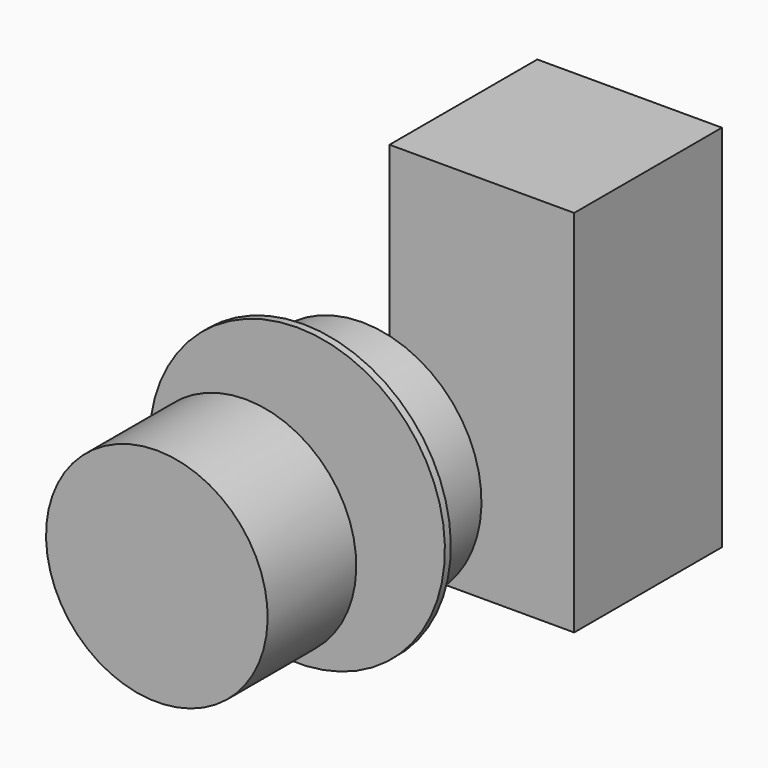
from build123d import *

# Parameters (mm, degrees)
F1_DEPTH = 50
F0_W     = 14
F0_H     = 7.5
F0_W_2   = 5
F0_H_2   = 40


with BuildPart() as f1:
    # F0 (on Right) → F1 (new body, symmetric)
    with BuildSketch(Plane.YZ):
        Polygon((217, 100), (117, 100), (117, 0), (117, -100), (217, -100), align=None)
    extrude(amount=F1_DEPTH, both=True)


with BuildPart() as f2:
    # F0 (on Right) → F2 (revolve)
    with BuildSketch(Plane.YZ):
        Polygon((0, 64.6060726047), (0, 54.6060726047), (31, 54.6060726047), (31, 14.6060726047), (36, 14.6060726047), (36, 54.6060726047), (36, 64.6060726047), align=None)
    revolve(axis=Axis((0, 11.2299398184, 0), (0, 1, 0)))


with BuildPart() as f3:
    # F0 (on Right) → F3 (revolve)
    with BuildSketch(Plane.YZ):
        Polygon((-8, 0), (0, 0), (0, 54.6060726047), (0, 64.6060726047), (0, 70), (-4, 70), (-4, 80), (-8, 80), align=None)
    revolve(axis=Axis((0, 11.2299398184, 0), (0, 1, 0)))


with BuildPart() as f4:
    # F0 (on Right) → F4 (revolve)
    with BuildSketch(Plane.YZ):
        with Locations((-19, 3.75)):
            Rectangle(F0_W, F0_H)
    revolve(axis=Axis((0, 11.2299398184, 0), (0, 1, 0)))


with BuildPart() as f5:
    # F0 (on Right) → F5 (revolve)
    with BuildSketch(Plane.YZ):
        Polygon((-26, 7.5), (-12, 7.5), (-12, 10), (-15.1788335517, 10), (-15.1788335517, 13), (-43, 13), (-57, 13), (-57, 0), (-47.6, 0), (-45, 1.5), (-39, 1.5), (-39, 7.5), align=None)
    revolve(axis=Axis((0, 11.2299398184, 0), (0, 1, 0)))


with BuildPart() as f6:
    # F0 (on Right) → F6 (revolve)
    with BuildSketch(Plane.YZ):
        Polygon((-103, 0), (-57, 0), (-57, 13), (-43, 13), (-43, 60), (-103, 60), align=None)
    revolve(axis=Axis((0, 11.2299398184, 0), (0, 1, 0)))


with BuildPart() as f7:
    # F0 (on Right) → F7 (revolve)
    with BuildSketch(Plane.YZ):
        with Locations((9.3741726726, 31)):
            Rectangle(F0_W_2, F0_H_2)
    revolve(axis=Axis((0, 11.2299398184, 0), (0, 1, 0)))


with BuildPart() as f8:
    # F0 (on Right) → F8 (revolve)
    with BuildSketch(Plane.YZ):
        with Locations((23.2, 31)):
            Rectangle(F0_W_2, F0_H_2)
    revolve(axis=Axis((0, 11.2299398184, 0), (0, 1, 0)))


solid = Compound([f1.part, f2.part, f3.part, f4.part, f5.part, f6.part, f7.part, f8.part])
